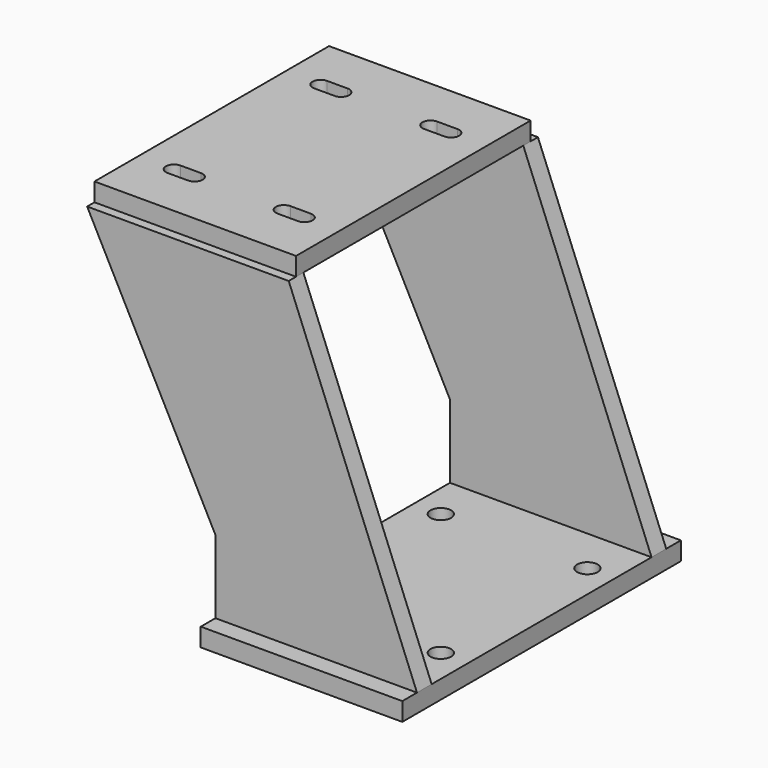
from build123d import *

# Parameters (mm, degrees)
F0_W      = 139.7
F0_H      = 241.3
F1_DEPTH  = 12.7
F3_D      = 14.2875
F4_W      = 228.6
F4_H      = 12.7
F5_DEPTH  = 222.25
F7_DEPTH  = 228.601
F9_DEPTH  = 228.601
F10_W     = 139.7
F10_H     = 203.2
F11_DEPTH = 12.7
F13_DEPTH = 25.4


with BuildPart() as f1:
    # F0 (on Top) → F1 (new body)
    with BuildSketch(Plane.XY):
        Rectangle(F0_W, F0_H)
    extrude(amount=F1_DEPTH)

    # F3 (through all)
    with Locations(Plane.XY.offset(12.7)):
        with Locations((-50.8, 63.5), (50.8, 63.5), (50.8, -63.5), (-50.8, -63.5)):
            Hole(F3_D / 2)

    # F4 (on face) → F5 (join)
    with BuildSketch(Plane.XY.offset(12.7)):
        with Locations((-44.45, -101.6)):
            Rectangle(F4_W, F4_H)
        with Locations((-44.45, 101.6)):
            Rectangle(F4_W, F4_H)
    extrude(amount=F5_DEPTH)

    # F6 (on face) → F7 (cut, through all)
    with BuildSketch(Plane.XZ.offset(107.95)):
        Polygon((-158.75, 12.7), (-69.85, 12.7), (-69.85, 63.5), (-158.75, 234.95), align=None)
    extrude(amount=-F7_DEPTH, mode=Mode.SUBTRACT)

    # F8 (on face) → F9 (cut, through all)
    with BuildSketch(Plane.XZ.offset(107.95)):
        Polygon((69.85, 234.95), (-19.05, 234.95), (69.85, 12.7), align=None)
    extrude(amount=-F9_DEPTH, mode=Mode.SUBTRACT)

    # F10 (on face) → F11 (join)
    with BuildSketch(Plane.XY.offset(234.95)):
        with Locations((-88.9, 0)):
            Rectangle(F10_W, F10_H)
    extrude(amount=F11_DEPTH)

    # F12 (on face) → F13 (cut)
    with BuildSketch(Plane.XY.offset(247.65)):
        with BuildLine():
            ThreePointArc((-134.112, -57.912), (-139.7, -63.5), (-134.112, -69.088))
            Line((-134.112, -69.088), (-119.888, -69.088))
            ThreePointArc((-119.888, -69.088), (-114.3, -63.5), (-119.888, -57.912))
            Line((-119.888, -57.912), (-134.112, -57.912))
        make_face()
        with BuildLine():
            Line((-57.912, -69.088), (-43.688, -69.088))
            ThreePointArc((-43.688, -69.088), (-38.1, -63.5), (-43.688, -57.912))
            Line((-43.688, -57.912), (-57.912, -57.912))
            ThreePointArc((-57.912, -57.912), (-63.5, -63.5), (-57.912, -69.088))
        make_face()
        with BuildLine():
            Line((-57.912, 57.912), (-43.688, 57.912))
            ThreePointArc((-43.688, 57.912), (-38.1, 63.5), (-43.688, 69.088))
            Line((-43.688, 69.088), (-57.912, 69.088))
            ThreePointArc((-57.912, 69.088), (-63.5, 63.5), (-57.912, 57.912))
        make_face()
        with BuildLine():
            Line((-119.888, 69.088), (-134.112, 69.088))
            ThreePointArc((-134.112, 69.088), (-139.7, 63.5), (-134.112, 57.912))
            Line((-134.112, 57.912), (-119.888, 57.912))
            ThreePointArc((-119.888, 57.912), (-114.3, 63.5), (-119.888, 69.088))
        make_face()
    extrude(amount=-F13_DEPTH, mode=Mode.SUBTRACT)


solid = f1.part
